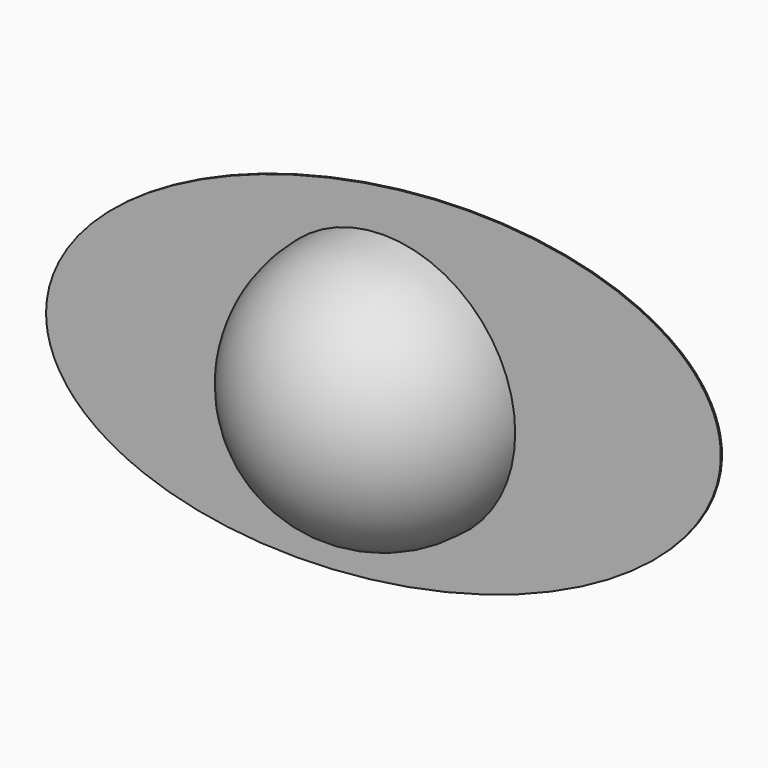
from build123d import *

# Parameters (mm, degrees)
F3_DEPTH = 0.254


with BuildPart() as f1:
    # F0 (on Top) → F1 (revolve)
    with BuildSketch(Plane.XY):
        with BuildLine():
            Line((22.335688, 0), (-22.335688, 0))
            ThreePointArc((-22.335688, 0), (0, -22.335688), (22.335688, 0))
        make_face()
    revolve(axis=Axis((0, 0, 0), (1, 0, 0)))

    # F2 (on Front) → F3 (join)
    with BuildSketch(Plane.XZ):
        with BuildLine():
            add(Edge.make_bspline(
                [(-56.940276, -10.695963), (-47.619536, -60.315198), (33.130508, -19.461636), (113.880552, 21.391926), (23.809768, 30.157599), (-66.261016, 38.923272), (-56.940276, -10.695963)],
                knots=[0, 0, 0, 2.094395, 2.094395, 4.18879, 4.18879, 6.283185, 6.283185, 6.283185], degree=2, weights=[1, 0.5, 1, 0.5, 1, 0.5, 1]))
        make_face()
    extrude(amount=-F3_DEPTH)


solid = f1.part
